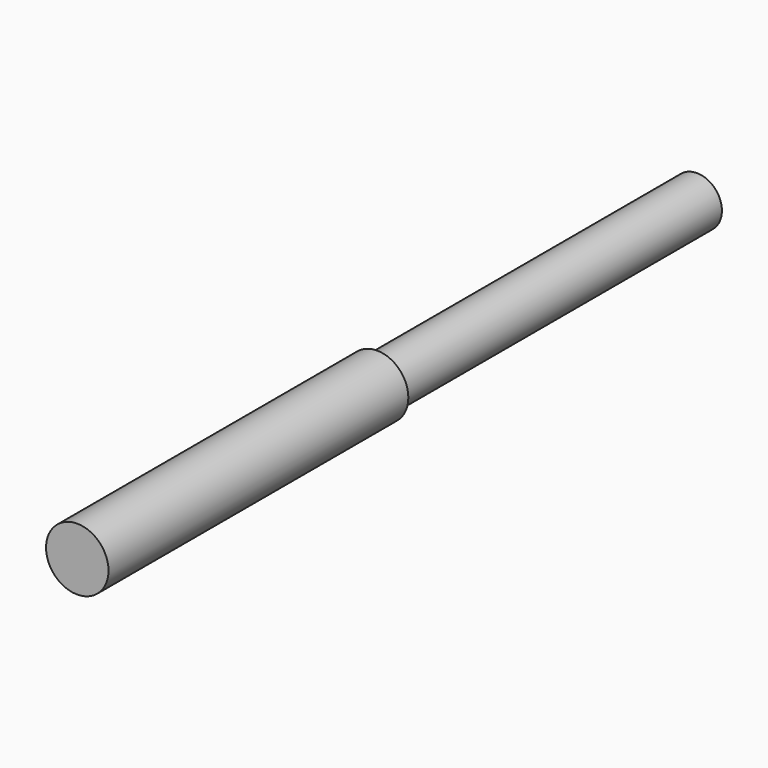
from build123d import *

# Parameters (mm, degrees)
F0_R     = 12.5
F1_DEPTH = 310
F2_R     = 6
F3_DEPTH = 45
F4_SIZE  = 1
F5_R     = 20.961122
F5_R_2   = 10
F6_DEPTH = 160


with BuildPart() as f1:
    # F0 (on Front) → F1 (new body)
    with BuildSketch(Plane.XZ):
        Circle(F0_R)
    extrude(amount=F1_DEPTH)

    # F2 (on face) → F3 (cut)
    with BuildSketch(Plane(origin=(0, 0, 0), x_dir=(-1, 0, 0), z_dir=(0, 1, 0))):
        Circle(F2_R)
    extrude(amount=-F3_DEPTH, mode=Mode.SUBTRACT)

    # F4
    f4_edges = [f1.edges().sort_by_distance(p)[0] for p in [
        (-12.5, 0, 0),
    ]]
    chamfer(f4_edges, length=F4_SIZE)

    # F5 (on Front) → F6 (cut)
    with BuildSketch(Plane.XZ):
        Circle(F5_R)
        Circle(F5_R_2, mode=Mode.SUBTRACT)
    extrude(amount=F6_DEPTH, mode=Mode.SUBTRACT)


solid = f1.part
